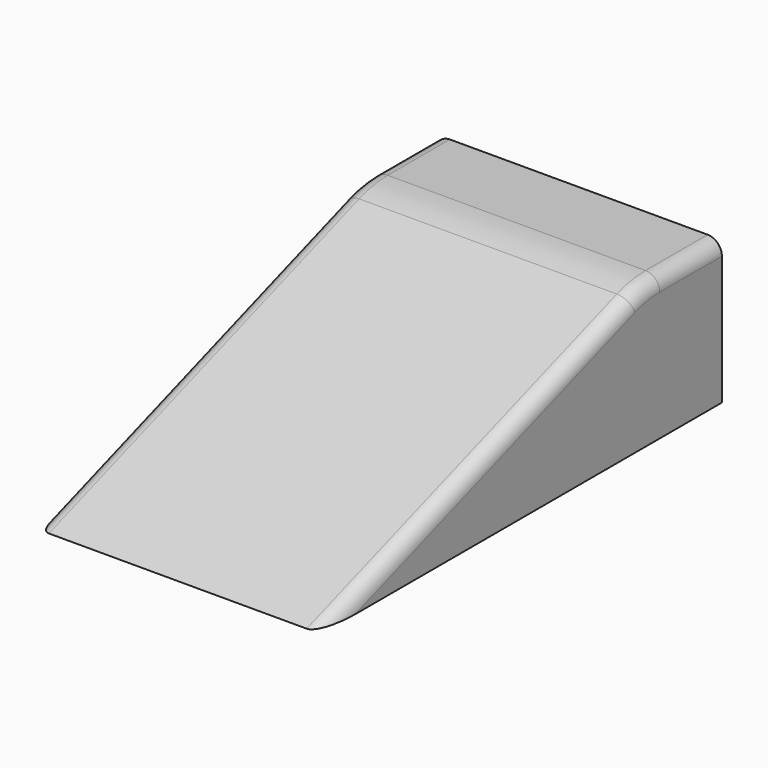
from build123d import *

# Parameters (mm, degrees)
F1_DEPTH = 40
F2_R     = 15
F3_R     = 2


with BuildPart() as f1:
    # F0 (on Right) → F1 (new body)
    with BuildSketch(Plane.YZ):
        Polygon((33.466395, 15.078471), (20.034937, 15.078471), (-36.533605, -4.921529), (33.466395, -4.921529), align=None)
    extrude(amount=F1_DEPTH)

    # F2
    f2_edges = [f1.edges().sort_by_distance(p)[0] for p in [
        (20, 20.034937, 15.078471),
    ]]
    fillet(f2_edges, radius=F2_R)

    # F3
    f3_edges = [f1.edges().sort_by_distance(p)[0] for p in [
        (40, -9.462537, 4.649539),
        (0, -9.462537, 4.649539),
    ]]
    fillet(f3_edges, radius=F3_R)


solid = f1.part
